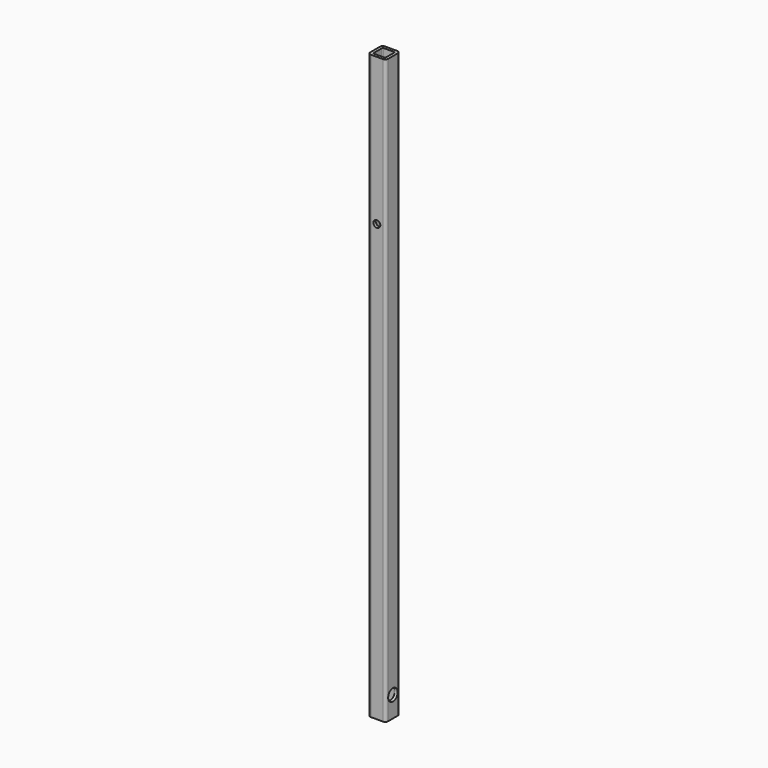
from build123d import *

# Parameters (mm, degrees)
F1_DEPTH = 622.3
F2_R     = 3.683
F3_DEPTH = 47.498
F4_R     = 6.35
F5_DEPTH = 4.064
F6_R     = 3.683
F7_DEPTH = 25.4
F8_R     = 6.35
F9_DEPTH = 8.636


with BuildPart() as f1:
    # F0 (on Top) → F1 (new body)
    with BuildSketch(Plane.XY):
        with BuildLine():
            ThreePointArc((0, 3.175), (0.929936, 0.929936), (3.175, 0))
            Line((3.175, 0), (15.875, 0))
            ThreePointArc((15.875, 0), (18.120064, 0.929936), (19.05, 3.175))
            Line((19.05, 3.175), (19.05, 15.875))
            ThreePointArc((19.05, 15.875), (18.120064, 18.120064), (15.875, 19.05))
            Line((15.875, 19.05), (3.175, 19.05))
            ThreePointArc((3.175, 19.05), (0.929936, 18.120064), (0, 15.875))
            Line((0, 15.875), (0, 3.175))
        make_face()
        with BuildLine():
            ThreePointArc((3.048, 14.986), (3.34558, 15.70442), (4.064, 16.002))
            Line((4.064, 16.002), (14.986, 16.002))
            ThreePointArc((14.986, 16.002), (15.70442, 15.70442), (16.002, 14.986))
            Line((16.002, 14.986), (16.002, 4.064))
            ThreePointArc((16.002, 4.064), (15.70442, 3.34558), (14.986, 3.048))
            Line((14.986, 3.048), (4.064, 3.048))
            ThreePointArc((4.064, 3.048), (3.34558, 3.34558), (3.048, 4.064))
            Line((3.048, 4.064), (3.048, 14.986))
        make_face(mode=Mode.SUBTRACT)
    extrude(amount=F1_DEPTH)

    # F2 (on Right) → F3 (cut)
    with BuildSketch(Plane.YZ):
        with Locations((9.525, 22.225)):
            Circle(F2_R)
    extrude(amount=F3_DEPTH, mode=Mode.SUBTRACT)

    # F4 (on face) → F5 (cut)
    with BuildSketch(Plane.YZ.offset(19.05)):
        with Locations((9.525, 22.225)):
            Circle(F4_R)
    extrude(amount=-F5_DEPTH, mode=Mode.SUBTRACT)

    # F6 (on Front) → F7 (cut)
    with BuildSketch(Plane.XZ):
        with Locations((9.525, 465.328)):
            Circle(F6_R)
    extrude(amount=-F7_DEPTH, mode=Mode.SUBTRACT)

    # F8 (on face) → F9 (cut)
    with BuildSketch(Plane(origin=(0, 19.05, 0), x_dir=(-1, 0, 0), z_dir=(0, 1, 0))):
        with Locations((-9.525, 465.328)):
            Circle(F8_R)
    extrude(amount=-F9_DEPTH, mode=Mode.SUBTRACT)


solid = f1.part
